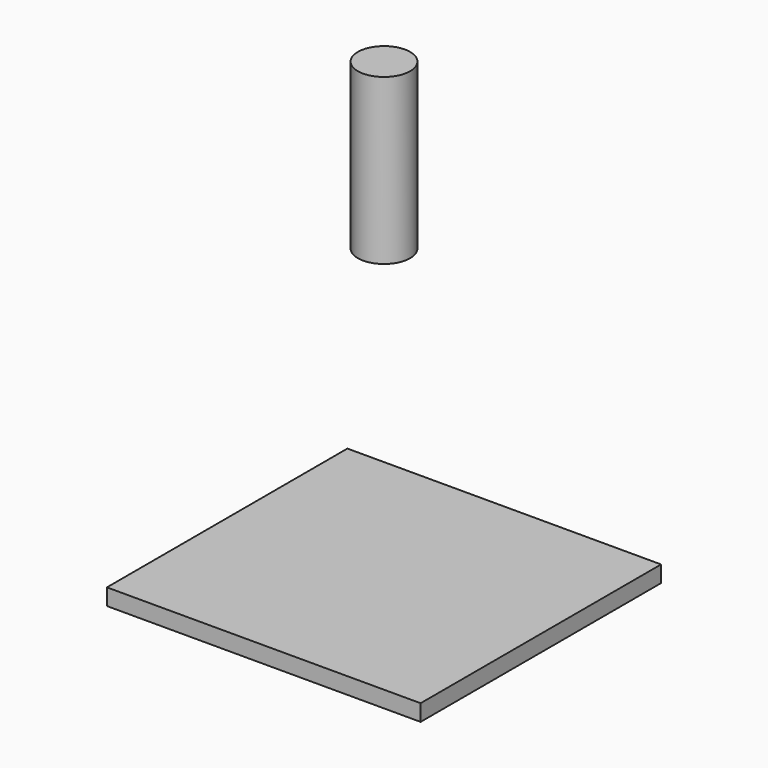
from build123d import *

# Parameters (mm, degrees)
F0_W     = 76.2
F0_H     = 73.025
F1_DEPTH = 4
F3_R     = 6.35
F4_DEPTH = 40


with BuildPart() as f1:
    # F0 (on Top) → F1 (new body)
    with BuildSketch(Plane.XY):
        Rectangle(F0_W, F0_H)
    extrude(amount=F1_DEPTH)


with BuildPart() as f4:
    # F3 (on offset) → F4 (new body)
    with BuildSketch(Plane.XY.offset(74)):
        Circle(F3_R)
    extrude(amount=F4_DEPTH)


solid = Compound([f1.part, f4.part])
